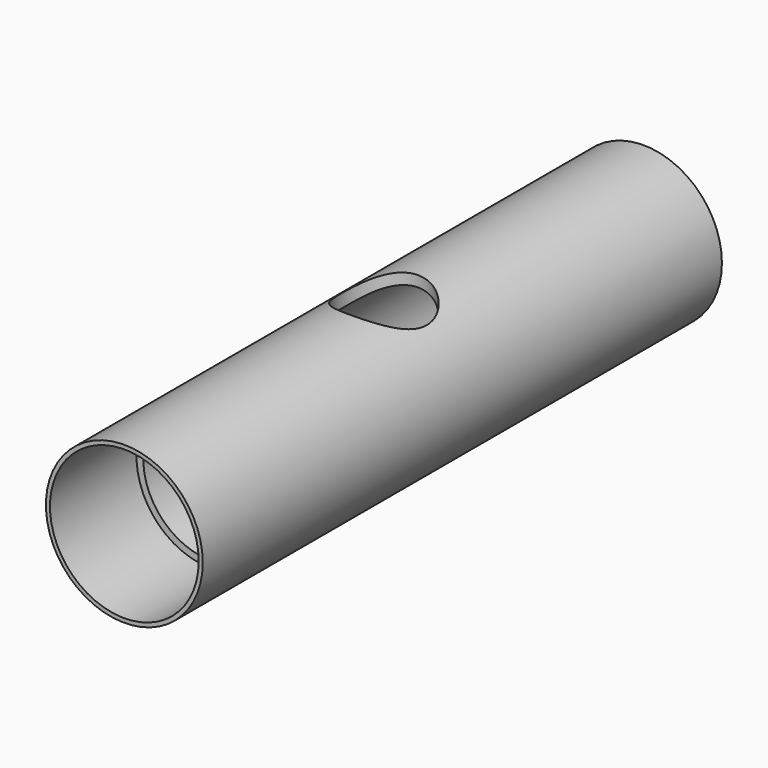
from build123d import *

# Parameters (mm, degrees)
F0_R     = 18.415
F0_R_2   = 15.875
F1_DEPTH = 76.2
F2_R     = 10.054491
F3_DEPTH = 40.64
F5_R     = 17.4625
F6_DEPTH = 25.4


with BuildPart() as f1:
    # F0 (on Front) → F1 (new body, symmetric)
    with BuildSketch(Plane.XZ):
        Circle(F0_R)
        Circle(F0_R_2, mode=Mode.SUBTRACT)
    extrude(amount=F1_DEPTH, both=True)

    # F2 (on Top) → F3 (cut, symmetric)
    with BuildSketch(Plane.XY):
        Circle(F2_R)
    extrude(amount=F3_DEPTH, both=True, mode=Mode.SUBTRACT)

    # F5 (on face) → F6 (cut)
    with BuildSketch(Plane.XZ.offset(76.2)):
        Circle(F5_R)
    extrude(amount=-F6_DEPTH, mode=Mode.SUBTRACT)


solid = f1.part
